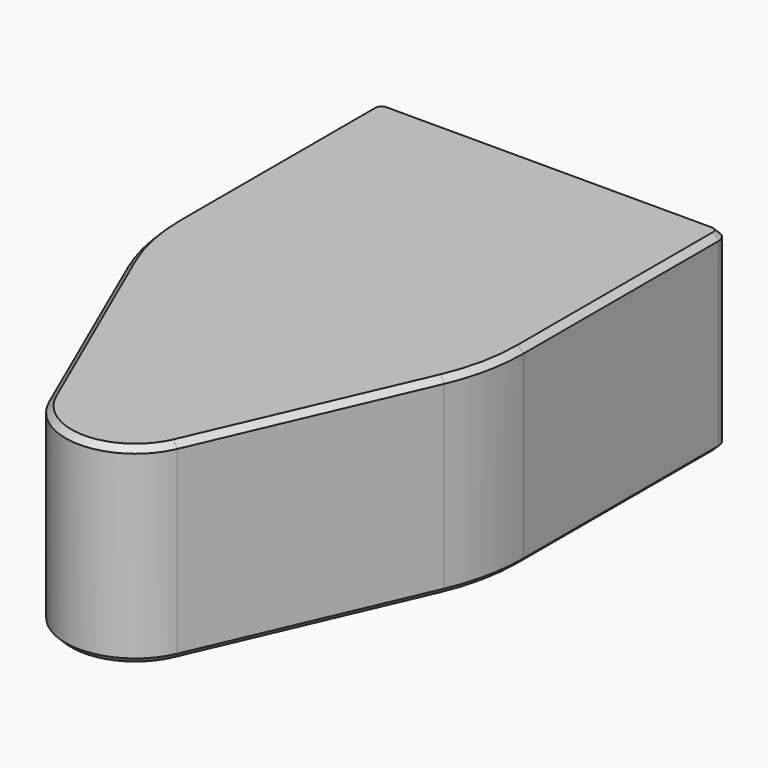
from build123d import *

# Parameters (mm, degrees)
PAD_DEPTH       = 33
POCKET_DEPTH    = 28
PAD001_DEPTH    = 4
SKETCH003_R     = 2.75
PAD002_DEPTH    = 5
SKETCH004_R     = 3.125
PAD003_DEPTH    = 3
FILLET_R        = 34
FILLET001_R     = 12
FILLET002_R     = 2
CHAMFER_SIZE    = 1
CHAMFER001_SIZE = 1
CHAMFER002_SIZE = 1


with BuildPart() as part:
    # Sketch → Pad (new body)
    with BuildSketch(Plane.XY):
        Polygon((-30, 0), (30, 0), (30, -51.038384), (0, -120), (-30, -51.038384), align=None)
    extrude(amount=PAD_DEPTH)

    # Sketch001 (on Face7 of Pad) → Pocket (cut)
    with BuildSketch(Plane.XY.offset(33)):
        Polygon((-22.25, 3.29609), (22.25, 3.29609), (22.25, -49.798735), (0, -100), (-22.25, -49.798735), align=None)
    extrude(amount=-POCKET_DEPTH, mode=Mode.SUBTRACT)

    # Sketch002 (on Face4 of Pocket) → Pad001 (join)
    with BuildSketch(Plane.XY.offset(33)):
        Polygon((-30, 0), (30, 0), (30, -51.038384), (0, -120), (-30, -51.038384), align=None)
    extrude(amount=-PAD001_DEPTH)

    # Sketch003 (on Face2 of Pad001) → Pad002 (join)
    with BuildSketch(Plane(origin=(0, 0, 0), x_dir=(1, 0, 0), z_dir=(0, 0, -1))):
        with Locations((-12.7, 22.314992)):
            Circle(SKETCH003_R)
        with Locations((12.7, 22.314992)):
            Circle(SKETCH003_R)
        with Locations((-12.7, 47.714992)):
            Circle(SKETCH003_R)
        with Locations((12.7, 47.714992)):
            Circle(SKETCH003_R)
    extrude(amount=PAD002_DEPTH)

    # Sketch004 (on Face25 of Pad002) → Pad003 (join)
    with BuildSketch(Plane(origin=(0, 0, -5), x_dir=(1, 0, 0), z_dir=(0, 0, -1))):
        with Locations((12.7, 47.714992)):
            Circle(SKETCH004_R)
        with Locations((-12.7, 47.714992)):
            Circle(SKETCH004_R)
        with Locations((-12.7, 22.314992)):
            Circle(SKETCH004_R)
        with Locations((12.7, 22.314992)):
            Circle(SKETCH004_R)
    extrude(amount=PAD003_DEPTH)

    # Fillet
    fillet_edges = [part.edges().sort_by_distance(p)[0] for p in [
        (30, -51.038384, 14.5),
        (-30, -51.038384, 14.5),
    ]]
    fillet(fillet_edges, radius=FILLET_R)

    # Fillet001
    fillet001_edges = [part.edges().sort_by_distance(p)[0] for p in [
        (0, -120, 14.5),
    ]]
    fillet(fillet001_edges, radius=FILLET001_R)

    # Fillet002
    fillet002_edges = [part.edges().sort_by_distance(p)[0] for p in [
        (-30, 0, 14.5),
        (30, 0, 14.5),
    ]]
    fillet(fillet002_edges, radius=FILLET002_R)

    # Chamfer
    chamfer_edges = [part.edges().sort_by_distance(p)[0] for p in [
        (30, -22.981604, 33),
    ]]
    chamfer(chamfer_edges, length=CHAMFER_SIZE)

    # Chamfer001
    chamfer001_edges = [part.edges().sort_by_distance(p)[0] for p in [
        (0, 0, 0),
    ]]
    chamfer(chamfer001_edges, length=CHAMFER001_SIZE)

    # Chamfer002
    chamfer002_edges = [part.edges().sort_by_distance(p)[0] for p in [
        (-15.825, -22.314992, -8),
        (9.575, -22.314992, -8),
        (9.575, -47.714992, -8),
        (-15.825, -47.714992, -8),
    ]]
    chamfer(chamfer002_edges, length=CHAMFER002_SIZE)


solid = part.part
